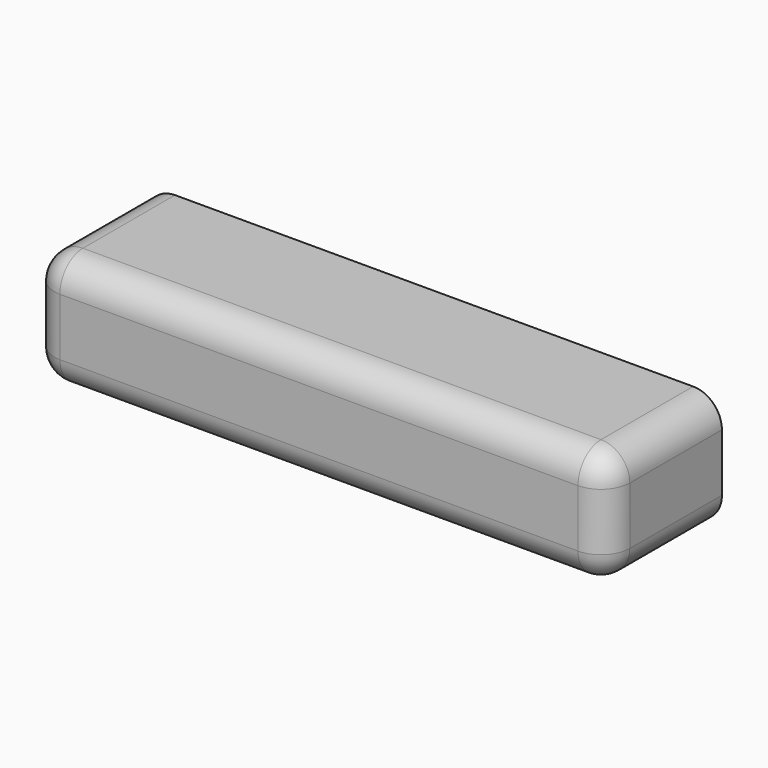
from build123d import *

# Parameters (mm, degrees)
F0_W     = 2
F0_H     = 0.4
F1_DEPTH = 0.5
F2_R     = 0.1


with BuildPart() as f1:
    # F0 (on Front) → F1 (new body)
    with BuildSketch(Plane.XZ):
        Rectangle(F0_W, F0_H)
    extrude(amount=F1_DEPTH)

    # F2
    f2_edges = [f1.edges().sort_by_distance(p)[0] for p in [
        (0, -0.5, 0.2),
        (1, -0.25, 0.2),
        (1, -0.5, 0),
        (-1, -0.5, 0),
        (-1, -0.25, -0.2),
        (0, -0.5, -0.2),
        (1, -0.25, -0.2),
        (-1, -0.25, 0.2),
    ]]
    fillet(f2_edges, radius=F2_R)


solid = f1.part
